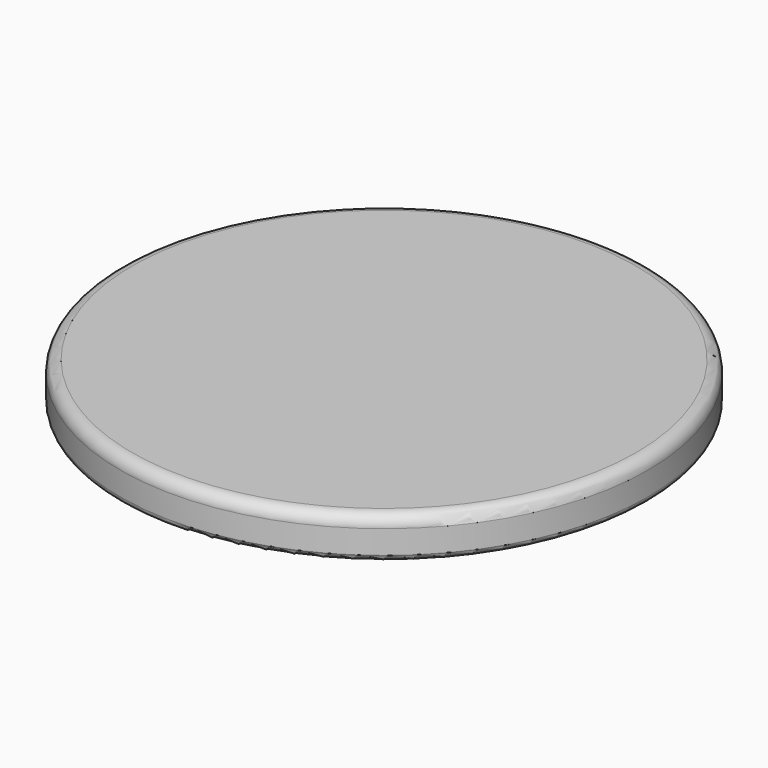
from build123d import *

# Parameters (mm, degrees)
CYLINDER009_R     = 45
CYLINDER009_DEPTH = 7
FILLET010_1_R     = 2
FILLET010_2_R     = 1


with BuildPart() as part:
    # Cylinder009 → Cylinder009 (new body)
    with BuildSketch(Plane.XY):
        Circle(CYLINDER009_R)
    extrude(amount=CYLINDER009_DEPTH)

    # Fillet010 1
    fillet010_1_edges = [part.edges().sort_by_distance(p)[0] for p in [
        (-45, 0, 7),
    ]]
    fillet(fillet010_1_edges, radius=FILLET010_1_R)

    # Fillet010 2
    fillet010_2_edges = [part.edges().sort_by_distance(p)[0] for p in [
        (-45, 0, 0),
    ]]
    fillet(fillet010_2_edges, radius=FILLET010_2_R)


solid = part.part
